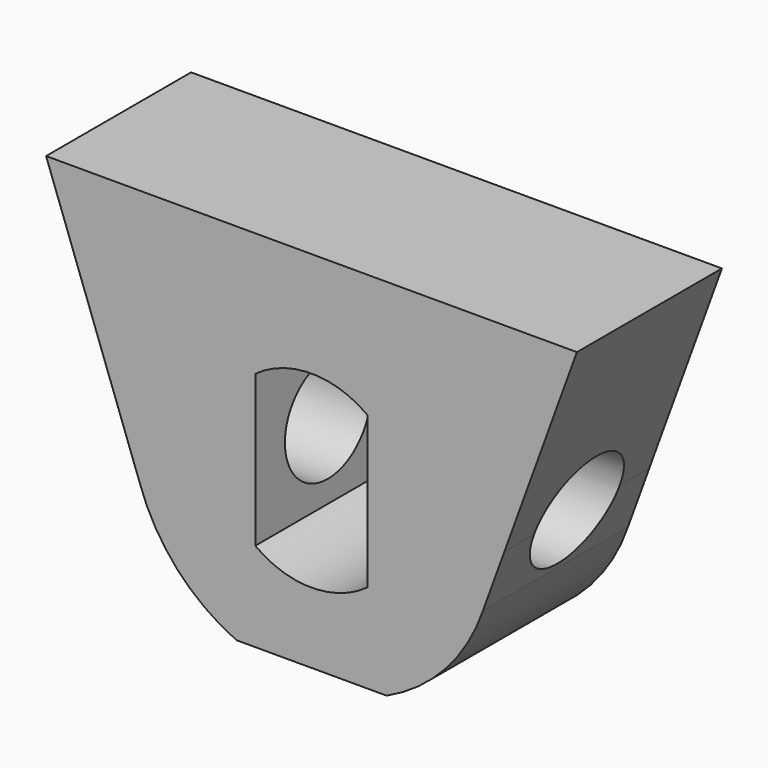
from build123d import *

# Parameters (mm, degrees)
CYLINDER012_R     = 1.48
CYLINDER012_DEPTH = 12
EXTRUDE008_DEPTH  = 5
EXTRUDE_DEPTH     = 5


with BuildPart() as motorcoupler_couplershaft:
    # Cylinder012 → Cylinder012 (new body)
    with BuildSketch(Plane(origin=(-6, 2.5, 0), x_dir=(0, 0, -1), z_dir=(1, 0, 0))):
        Circle(CYLINDER012_R)
    extrude(amount=CYLINDER012_DEPTH)


with BuildPart() as motorcoupler_motorshaft:
    # Sketch008 → Extrude008 (new body)
    with BuildSketch(Plane(origin=(0, 0, 0), x_dir=(0, 0, -1), z_dir=(0, -1, 0))):
        with BuildLine():
            ThreePointArc((2.087463, -1.55), (2.6, 0), (2.087463, 1.55))
            Line((-2.087463, 1.55), (2.087463, 1.55))
            ThreePointArc((-2.087463, 1.55), (-2.6, 0), (-2.087463, -1.55))
            Line((-2.087463, -1.55), (2.087463, -1.55))
        make_face()
    extrude(amount=-EXTRUDE008_DEPTH)


with BuildPart() as motorcoupler:
    # Sketch007 → Extrude (new body)
    with BuildSketch(Plane.XZ):
        with BuildLine():
            Line((4.728709, -1.624596), (5.320013, 0))
            Line((5.320013, 0), (7.32185, 5.5))
            Line((-7.32185, 5.5), (7.32185, 5.5))
            Line((-5.320013, 0), (-7.32185, 5.5))
            Line((-4.728709, -1.624596), (-5.320013, 0))
            ThreePointArc((-4.728709, -1.624596), (-3.702087, -3.360737), (-2.073041, -4.55))
            Line((-2.073041, -4.55), (2.073041, -4.55))
            ThreePointArc((2.073041, -4.55), (3.702087, -3.360737), (4.728709, -1.624596))
        make_face()
    extrude(amount=-EXTRUDE_DEPTH)

    # Cut017: cut motorCoupler_motorShaft
    add(motorcoupler_motorshaft.part, mode=Mode.SUBTRACT)

    # Cut018: cut motorCoupler_couplerShaft
    add(motorcoupler_couplershaft.part, mode=Mode.SUBTRACT)


solid = motorcoupler.part
